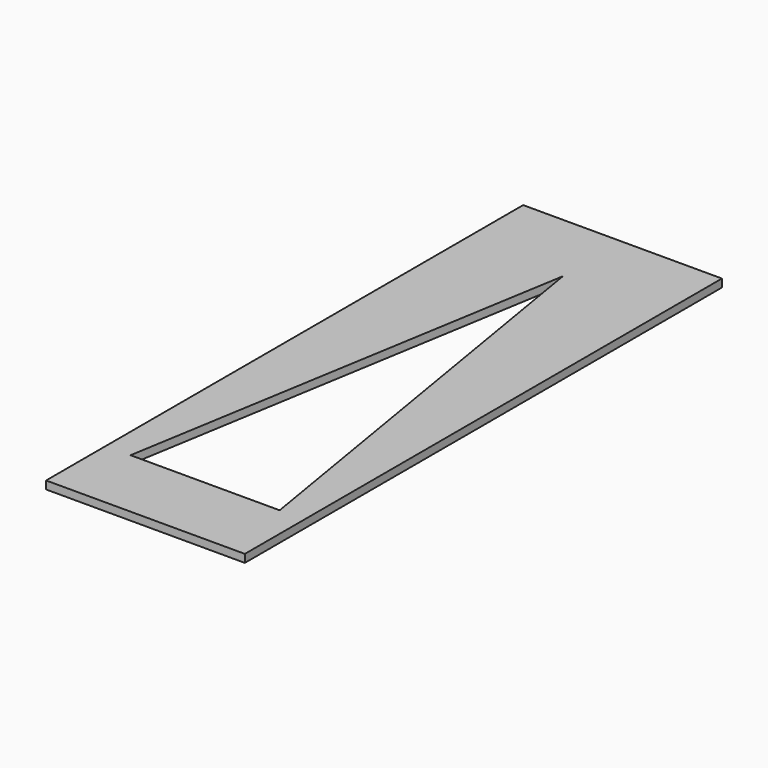
from build123d import *

# Parameters (mm, degrees)
PAD003_DEPTH      = 2
PAD003_DEPTH_BACK = 2
SKETCH019_W       = 25
SKETCH019_H       = 75
PAD018_DEPTH      = 1


with BuildPart() as body003:
    # Sketch004 → Pad003 (new body, two sides)
    with BuildSketch(Plane.XY) as pad003_sk:
        Polygon((12.5, 65.625), (3.125, 9.375), (21.875, 9.375), align=None)
    extrude(amount=PAD003_DEPTH)
    extrude(pad003_sk.sketch, amount=-PAD003_DEPTH_BACK)


with BuildPart() as body017:
    # Sketch019 → Pad018 (new body)
    with BuildSketch(Plane.XY):
        with Locations((12.5, 37.5)):
            Rectangle(SKETCH019_W, SKETCH019_H)
    extrude(amount=PAD018_DEPTH)

    # Boolean002: cut Body003
    add(body003.part, mode=Mode.SUBTRACT)


solid = body017.part
